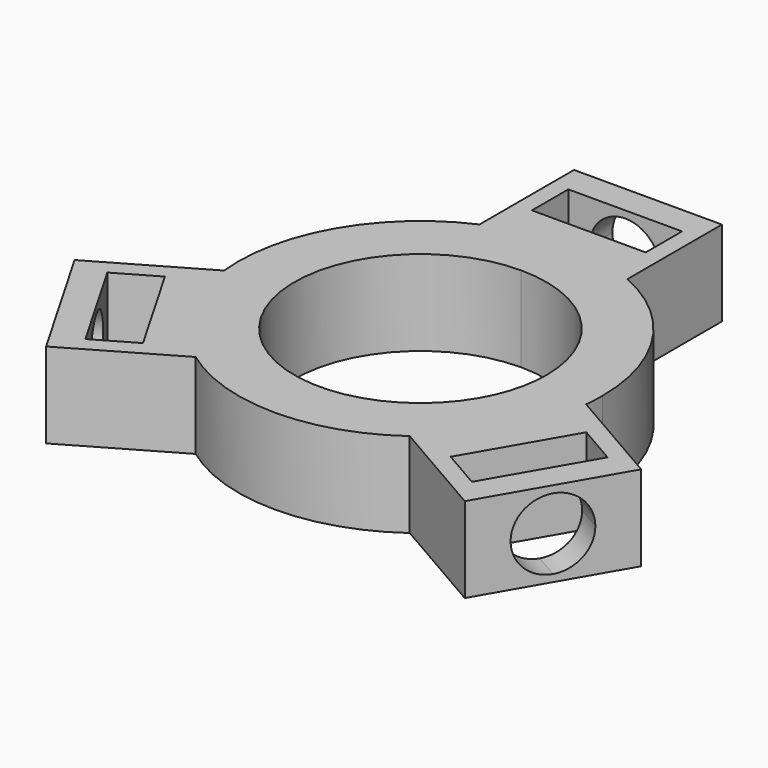
from build123d import *

# Parameters (mm, degrees)
F1_DEPTH = 7.5
F3_DEPTH = 25
F5_DEPTH = 6
F7_DEPTH = 6
F9_DEPTH = 6


with BuildPart() as f1:
    # F0 (on Top) → F1 (new body)
    with BuildSketch(Plane.XY):
        with BuildLine():
            ThreePointArc((-9.5912313469, -5.5375), (-9.5912313469, 5.5375), (0, 11.075))
            Line((0, 11.075), (0, 16))
            ThreePointArc((0, 16), (-3.3224189775, 15.6512469835), (-6.5, 14.6201915172))
            ThreePointArc((-6.5, 14.6201915172), (-13.8564064606, 8), (-15.9114572621, -1.680930634))
            ThreePointArc((-15.9114572621, -1.680930634), (-15.2155869774, -4.9483242552), (-13.8564064606, -8))
            Line((-13.8564064606, -8), (-9.5912313469, -5.5375))
        make_face()
        with BuildLine():
            ThreePointArc((0, 11.075), (7.8312076016, 7.8312076016), (11.075, 0))
            ThreePointArc((11.075, 0), (10.6976285262, -2.8664209245), (9.5912313469, -5.5375))
            Line((9.5912313469, -5.5375), (13.8564064606, -8))
            ThreePointArc((13.8564064606, -8), (15.2155869774, -4.9483242552), (15.9114572621, -1.680930634))
            ThreePointArc((15.9114572621, -1.680930634), (15.9778489822, -0.8416305028), (16, 0))
            ThreePointArc((16, 0), (13.416407865, 8.7177978871), (6.5, 14.6201915172))
            ThreePointArc((6.5, 14.6201915172), (3.3224189775, 15.6512469835), (0, 16))
            Line((0, 16), (0, 11.075))
        make_face()
        with BuildLine():
            Line((13.8564064606, -8), (9.5912313469, -5.5375))
            ThreePointArc((9.5912313469, -5.5375), (0, -11.075), (-9.5912313469, -5.5375))
            Line((-9.5912313469, -5.5375), (-13.8564064606, -8))
            ThreePointArc((-13.8564064606, -8), (-11.8931679998, -10.7029227283), (-9.4114572621, -12.9392608832))
            ThreePointArc((-9.4114572621, -12.9392608832), (0, -16), (9.4114572621, -12.9392608832))
            ThreePointArc((9.4114572621, -12.9392608832), (11.8931679998, -10.7029227283), (13.8564064606, -8))
        make_face()
        with BuildLine():
            Line((0, 25), (0, 16))
            ThreePointArc((0, 16), (3.3224189775, 15.6512469835), (6.5, 14.6201915172))
            Line((6.5, 14.6201915172), (6.5, 25))
            Line((6.5, 25), (0, 25))
        make_face()
        with BuildLine():
            ThreePointArc((-6.5, 14.6201915172), (-3.3224189775, 15.6512469835), (0, 16))
            Line((0, 16), (0, 25))
            Line((0, 25), (-6.5, 25))
            Line((-6.5, 25), (-6.5, 14.6201915172))
        make_face()
        with BuildLine():
            Line((-21.6506350946, -12.5), (-13.8564064606, -8))
            ThreePointArc((-13.8564064606, -8), (-15.2155869774, -4.9483242552), (-15.9114572621, -1.680930634))
            Line((-15.9114572621, -1.680930634), (-24.9006350946, -6.8708348754))
            Line((-24.9006350946, -6.8708348754), (-21.6506350946, -12.5))
        make_face()
        with BuildLine():
            ThreePointArc((-9.4114572621, -12.9392608832), (-11.8931679998, -10.7029227283), (-13.8564064606, -8))
            Line((-13.8564064606, -8), (-21.6506350946, -12.5))
            Line((-21.6506350946, -12.5), (-18.4006350946, -18.1291651246))
            Line((-18.4006350946, -18.1291651246), (-9.4114572621, -12.9392608832))
        make_face()
        with BuildLine():
            Line((21.6506350946, -12.5), (13.8564064606, -8))
            ThreePointArc((13.8564064606, -8), (11.8931679998, -10.7029227283), (9.4114572621, -12.9392608832))
            Line((9.4114572621, -12.9392608832), (18.4006350946, -18.1291651246))
            Line((18.4006350946, -18.1291651246), (21.6506350946, -12.5))
        make_face()
        with BuildLine():
            ThreePointArc((15.9114572621, -1.680930634), (15.2155869774, -4.9483242552), (13.8564064606, -8))
            Line((13.8564064606, -8), (21.6506350946, -12.5))
            Line((21.6506350946, -12.5), (24.9006350946, -6.8708348754))
            Line((24.9006350946, -6.8708348754), (15.9114572621, -1.680930634))
        make_face()
    extrude(amount=F1_DEPTH)

    # F2 (on face) → F3 (cut)
    with BuildSketch(Plane.XY.offset(7.5)):
        Polygon((5, 22.5), (0, 22.5), (-5, 22.5), (-5, 18.5), (5, 18.5), align=None)
        Polygon((-21.9855715851, -6.9198729811), (-19.4855715851, -11.25), (-16.02146997, -9.25), (-18.52146997, -4.9198729811), align=None)
        Polygon((-16.02146997, -9.25), (-19.4855715851, -11.25), (-16.9855715851, -15.5801270189), (-13.52146997, -13.5801270189), align=None)
        Polygon((16.9855715851, -15.5801270189), (19.4855715851, -11.25), (16.02146997, -9.25), (13.52146997, -13.5801270189), align=None)
        Polygon((16.02146997, -9.25), (19.4855715851, -11.25), (21.9855715851, -6.9198729811), (18.52146997, -4.9198729811), align=None)
    extrude(amount=-F3_DEPTH, mode=Mode.SUBTRACT)

    # F4 (on face) → F5 (cut)
    with BuildSketch(Plane(origin=(21.6506350946, -12.5, 0), x_dir=(0.5, 0.8660254038, 0), z_dir=(0.8660254038, -0.5, 0))):
        with BuildLine():
            ThreePointArc((0, 6.875), (-3.125, 3.75), (0, 0.625))
            Line((0, 0.625), (0, 6.875))
        make_face()
        with BuildLine():
            Line((0, 6.875), (0, 0.625))
            ThreePointArc((0, 0.625), (2.2097086912, 1.5402913088), (3.125, 3.75))
            ThreePointArc((3.125, 3.75), (2.2097086912, 5.9597086912), (0, 6.875))
        make_face()
    extrude(amount=-F5_DEPTH, mode=Mode.SUBTRACT)

    # F6 (on face) → F7 (cut)
    with BuildSketch(Plane(origin=(0, 25, 0), x_dir=(-1, 0, 0), z_dir=(0, 1, 0))):
        with BuildLine():
            Line((0, 6.875), (0, 0.625))
            ThreePointArc((0, 0.625), (2.2097086912, 1.5402913088), (3.125, 3.75))
            ThreePointArc((3.125, 3.75), (2.2097086912, 5.9597086912), (0, 6.875))
        make_face()
        with BuildLine():
            ThreePointArc((0, 6.875), (-3.125, 3.75), (0, 0.625))
            Line((0, 0.625), (0, 6.875))
        make_face()
    extrude(amount=-F7_DEPTH, mode=Mode.SUBTRACT)

    # F8 (on face) → F9 (cut)
    with BuildSketch(Plane(origin=(-21.6506350946, -12.5, 0), x_dir=(0.5, -0.8660254038, 0), z_dir=(-0.8660254038, -0.5, 0))):
        with BuildLine():
            ThreePointArc((3.125, 3.75), (2.2097086912, 5.9597086912), (0, 6.875))
            Line((0, 6.875), (0, 0.625))
            ThreePointArc((0, 0.625), (2.2097086912, 1.5402913088), (3.125, 3.75))
        make_face()
        with BuildLine():
            Line((0, 0.625), (0, 6.875))
            ThreePointArc((0, 6.875), (-3.125, 3.75), (0, 0.625))
        make_face()
    extrude(amount=-F9_DEPTH, mode=Mode.SUBTRACT)


solid = f1.part
